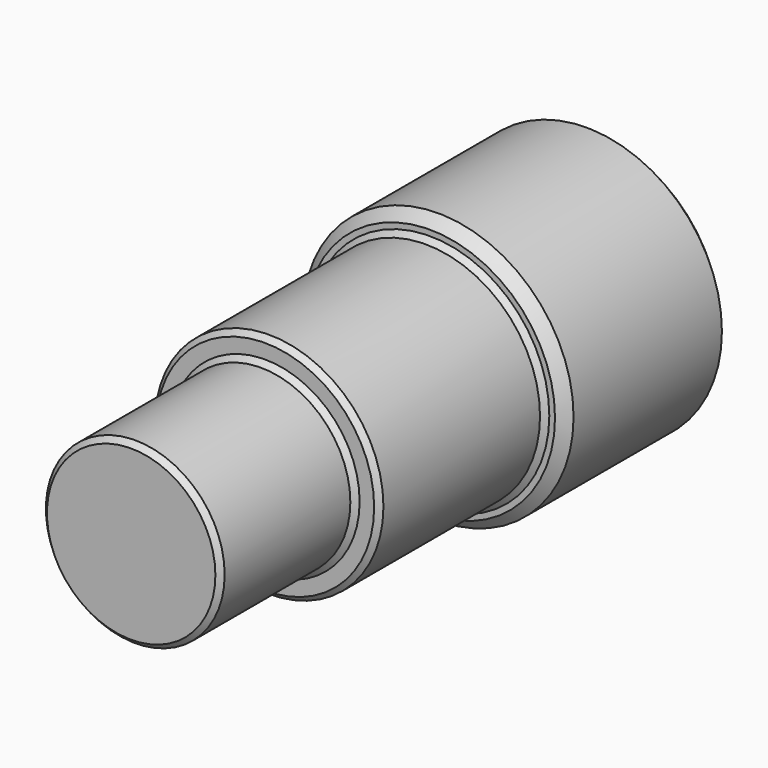
from build123d import *

# Parameters (mm, degrees)
F0_R     = 66.758219
F1_DEPTH = 101.6
F2_R     = 56.321266
F3_DEPTH = 101.6
F4_R     = 44.069911
F5_DEPTH = 82.55
F6_SIZE  = 5.08
F7_SIZE  = 2.54


with BuildPart() as f1:
    # F0 (on Front) → F1 (new body)
    with BuildSketch(Plane.XZ):
        Circle(F0_R)
    extrude(amount=F1_DEPTH)

    # F2 (on face) → F3 (join)
    with BuildSketch(Plane.XZ.offset(101.6)):
        Circle(F2_R)
    extrude(amount=F3_DEPTH)

    # F4 (on face) → F5 (join)
    with BuildSketch(Plane.XZ.offset(203.2)):
        Circle(F4_R)
    extrude(amount=F5_DEPTH)

    # F6
    f6_edges = [f1.edges().sort_by_distance(p)[0] for p in [
        (66.758219, -50.8, 0),
        (-66.758219, 0, 0),
        (-66.758219, -101.6, 0),
    ]]
    chamfer(f6_edges, length=F6_SIZE)

    # F7
    f7_edges = [f1.edges().sort_by_distance(p)[0] for p in [
        (56.321266, -152.4, 0),
        (-56.321266, -101.6, 0),
        (-56.321266, -203.2, 0),
        (44.069911, -244.475, 0),
        (-44.069911, -203.2, 0),
        (-44.069911, -285.75, 0),
    ]]
    chamfer(f7_edges, length=F7_SIZE)


solid = f1.part
